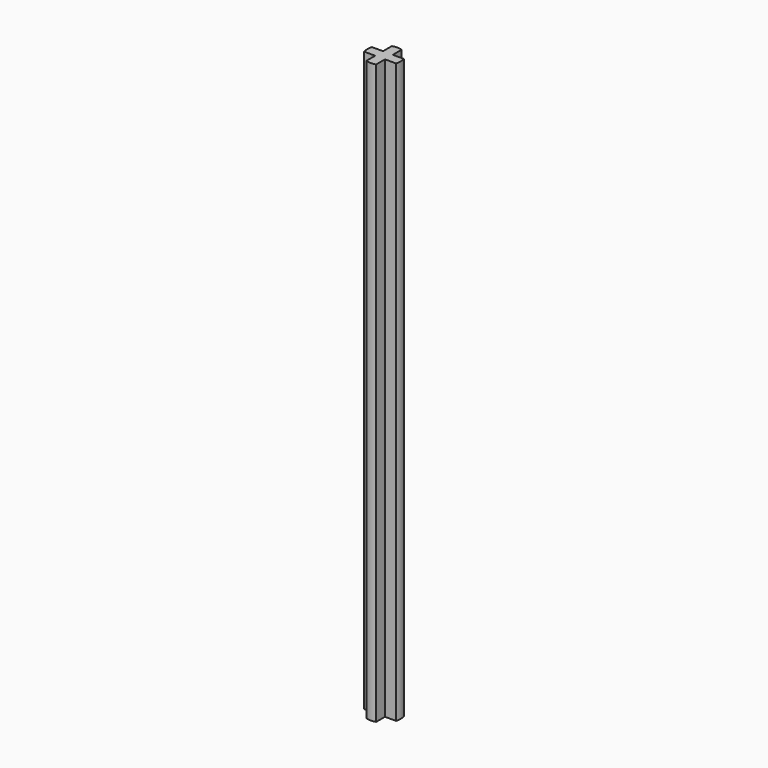
from build123d import *

# Parameters (mm, degrees)
F1_DEPTH = 82.55


with BuildPart() as f1:
    # F0 (on Top) → F1 (new body)
    with BuildSketch(Plane.XY):
        with BuildLine():
            Line((-11.57952, 10.962582), (-11.57952, 9.384583))
            ThreePointArc((-11.57952, 9.384583), (-10.88102, 9.279832), (-10.18252, 9.384583))
            Line((-10.18252, 9.384583), (-10.18252, 10.962582))
            Line((-10.18252, 10.962582), (-8.604521, 10.962582))
            ThreePointArc((-8.604521, 10.962582), (-8.49977, 11.661082), (-8.604521, 12.359582))
            Line((-8.604521, 12.359582), (-10.18252, 12.359582))
            Line((-10.18252, 12.359582), (-10.18252, 13.937582))
            ThreePointArc((-10.18252, 13.937582), (-10.88102, 14.042332), (-11.57952, 13.937582))
            Line((-11.57952, 13.937582), (-11.57952, 12.359582))
            Line((-11.57952, 12.359582), (-13.157519, 12.359582))
            ThreePointArc((-13.157519, 12.359582), (-13.26227, 11.661082), (-13.157519, 10.962582))
            Line((-13.157519, 10.962582), (-11.57952, 10.962582))
        make_face()
    extrude(amount=F1_DEPTH)


solid = f1.part
